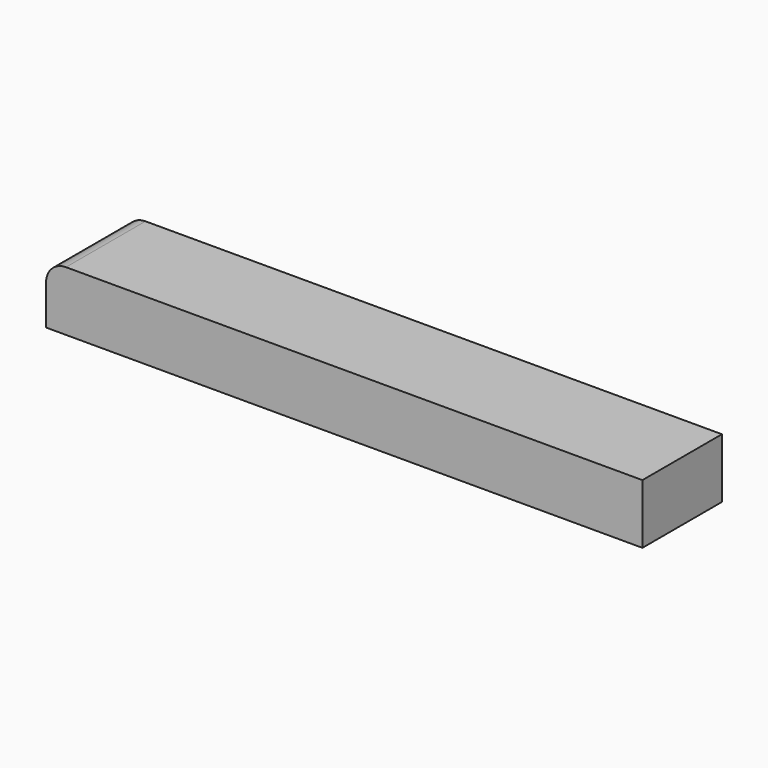
from build123d import *

# Parameters (mm, degrees)
F1_DEPTH = 25
F2_R     = 5


with BuildPart() as f1:
    # F0 (on Front) → F1 (new body)
    with BuildSketch(Plane.XZ):
        Polygon((-461.043159, 15), (-461.043159, 0), (-381.043159, 0), (-368.443159, 0), (-311.043159, 0), (-311.043159, 15), (-368.443159, 15), (-381.043159, 15), align=None)
    extrude(amount=F1_DEPTH)

    # F2
    f2_edges = [f1.edges().sort_by_distance(p)[0] for p in [
        (-461.043159, -12.5, 15),
    ]]
    fillet(f2_edges, radius=F2_R)


solid = f1.part
